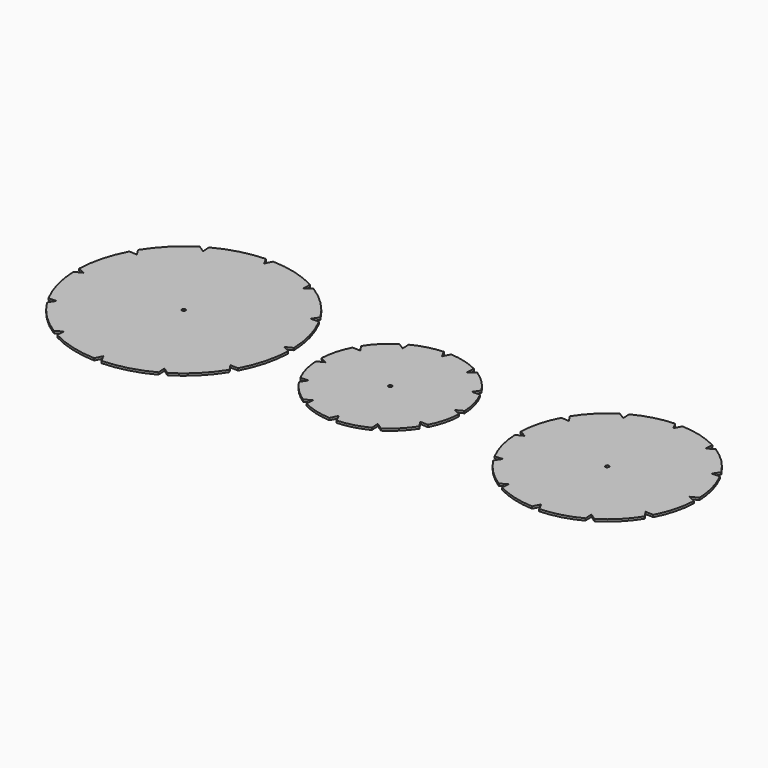
from build123d import *

# Parameters (mm, degrees)
F0_R     = 0.5
F1_DEPTH = 0.6


with BuildPart() as f1:
    # F0 (on Top) → F1 (new body)
    with BuildSketch(Plane.XY):
        with BuildLine():
            Line((72.080339, 19.918584), (72.20431, 22.133308))
            ThreePointArc((72.20431, 22.133308), (67.050815, 24.148146), (61.580339, 24.979992))
            Line((61.580339, 24.979992), (60.580339, 23))
            Line((60.580339, 23), (59.580339, 24.979992))
            ThreePointArc((59.580339, 24.979992), (54.109863, 24.148146), (48.956369, 22.133308))
            Line((48.956369, 22.133308), (49.080339, 19.918584))
            Line((49.080339, 19.918584), (47.224318, 21.133308))
            ThreePointArc((47.224318, 21.133308), (42.90267, 17.67767), (39.447032, 13.356021))
            Line((39.447032, 13.356021), (40.661755, 11.5))
            Line((40.661755, 11.5), (38.447032, 11.623971))
            ThreePointArc((38.447032, 11.623971), (36.432194, 6.470476), (35.600347, 1))
            Line((35.600347, 1), (37.580339, 0))
            Line((37.580339, 0), (35.600347, -1))
            ThreePointArc((35.600347, -1), (36.432194, -6.470476), (38.447032, -11.623971))
            Line((38.447032, -11.623971), (40.661755, -11.5))
            Line((40.661755, -11.5), (39.447032, -13.356021))
            ThreePointArc((39.447032, -13.356021), (42.90267, -17.67767), (47.224318, -21.133308))
            Line((47.224318, -21.133308), (49.080339, -19.918584))
            Line((49.080339, -19.918584), (48.956369, -22.133308))
            ThreePointArc((48.956369, -22.133308), (54.109863, -24.148146), (59.580339, -24.979992))
            Line((59.580339, -24.979992), (60.580339, -23))
            Line((60.580339, -23), (61.580339, -24.979992))
            ThreePointArc((61.580339, -24.979992), (67.050815, -24.148146), (72.20431, -22.133308))
            Line((72.20431, -22.133308), (72.080339, -19.918584))
            Line((72.080339, -19.918584), (73.936361, -21.133308))
            ThreePointArc((73.936361, -21.133308), (78.258009, -17.67767), (81.713647, -13.356021))
            Line((81.713647, -13.356021), (80.498924, -11.5))
            Line((80.498924, -11.5), (82.713647, -11.623971))
            ThreePointArc((82.713647, -11.623971), (84.728485, -6.470476), (85.560331, -1))
            Line((85.560331, -1), (83.580339, 0))
            Line((83.580339, 0), (85.560331, 1))
            ThreePointArc((85.560331, 1), (84.728485, 6.470476), (82.713647, 11.623971))
            Line((82.713647, 11.623971), (80.498924, 11.5))
            Line((80.498924, 11.5), (81.713647, 13.356021))
            ThreePointArc((81.713647, 13.356021), (78.258009, 17.67767), (73.936361, 21.133308))
            Line((73.936361, 21.133308), (72.080339, 19.918584))
        make_face()
        with Locations((60.580339, 0)):
            Circle(F0_R, mode=Mode.SUBTRACT)
        with BuildLine():
            Line((9, 15.588457), (9.121467, 17.798844))
            ThreePointArc((9.121467, 17.798844), (5.176381, 19.318517), (1, 19.974984))
            Line((1, 19.974984), (0, 18))
            Line((0, 18), (-1, 19.974984))
            ThreePointArc((-1, 19.974984), (-5.176381, 19.318517), (-9.121467, 17.798844))
            Line((-9.121467, 17.798844), (-9, 15.588457))
            Line((-9, 15.588457), (-10.853518, 16.798844))
            ThreePointArc((-10.853518, 16.798844), (-14.142136, 14.142136), (-16.798844, 10.853518))
            Line((-16.798844, 10.853518), (-15.588457, 9))
            Line((-15.588457, 9), (-17.798844, 9.121467))
            ThreePointArc((-17.798844, 9.121467), (-19.318517, 5.176381), (-19.974984, 1))
            Line((-19.974984, 1), (-18, 0))
            Line((-18, 0), (-19.974984, -1))
            ThreePointArc((-19.974984, -1), (-19.318517, -5.176381), (-17.798844, -9.121467))
            Line((-17.798844, -9.121467), (-15.588457, -9))
            Line((-15.588457, -9), (-16.798844, -10.853518))
            ThreePointArc((-16.798844, -10.853518), (-14.142136, -14.142136), (-10.853518, -16.798844))
            Line((-10.853518, -16.798844), (-9, -15.588457))
            Line((-9, -15.588457), (-9.121467, -17.798844))
            ThreePointArc((-9.121467, -17.798844), (-5.176381, -19.318517), (-1, -19.974984))
            Line((-1, -19.974984), (0, -18))
            Line((0, -18), (1, -19.974984))
            ThreePointArc((1, -19.974984), (5.176381, -19.318517), (9.121467, -17.798844))
            Line((9.121467, -17.798844), (9, -15.588457))
            Line((9, -15.588457), (10.853518, -16.798844))
            ThreePointArc((10.853518, -16.798844), (14.142136, -14.142136), (16.798844, -10.853518))
            Line((16.798844, -10.853518), (15.588457, -9))
            Line((15.588457, -9), (17.798844, -9.121467))
            ThreePointArc((17.798844, -9.121467), (19.318517, -5.176381), (19.974984, -1))
            Line((19.974984, -1), (18, 0))
            Line((18, 0), (19.974984, 1))
            ThreePointArc((19.974984, 1), (19.318517, 5.176381), (17.798844, 9.121467))
            Line((17.798844, 9.121467), (15.588457, 9))
            Line((15.588457, 9), (16.798844, 10.853518))
            ThreePointArc((16.798844, 10.853518), (14.142136, 14.142136), (10.853518, 16.798844))
            Line((10.853518, 16.798844), (9, 15.588457))
        make_face()
        Circle(F0_R, mode=Mode.SUBTRACT)
        with BuildLine():
            Line((-43.653245, 24.248711), (-43.527606, 26.466324))
            ThreePointArc((-43.527606, 26.466324), (-49.888673, 28.977775), (-56.653245, 29.983329))
            Line((-56.653245, 29.983329), (-57.653245, 28))
            Line((-57.653245, 28), (-58.653245, 29.983329))
            ThreePointArc((-58.653245, 29.983329), (-65.417816, 28.977775), (-71.778884, 26.466324))
            Line((-71.778884, 26.466324), (-71.653245, 24.248711))
            Line((-71.653245, 24.248711), (-73.510934, 25.466324))
            ThreePointArc((-73.510934, 25.466324), (-78.866448, 21.213203), (-83.119569, 15.85769))
            Line((-83.119569, 15.85769), (-81.901956, 14))
            Line((-81.901956, 14), (-84.119569, 14.125639))
            ThreePointArc((-84.119569, 14.125639), (-86.631019, 7.764571), (-87.636573, 1))
            Line((-87.636573, 1), (-85.653245, 0))
            Line((-85.653245, 0), (-87.636573, -1))
            ThreePointArc((-87.636573, -1), (-86.631019, -7.764571), (-84.119569, -14.125639))
            Line((-84.119569, -14.125639), (-81.901956, -14))
            Line((-81.901956, -14), (-83.119569, -15.85769))
            ThreePointArc((-83.119569, -15.85769), (-78.866448, -21.213203), (-73.510934, -25.466324))
            Line((-73.510934, -25.466324), (-71.653245, -24.248711))
            Line((-71.653245, -24.248711), (-71.778884, -26.466324))
            ThreePointArc((-71.778884, -26.466324), (-65.417816, -28.977775), (-58.653245, -29.983329))
            Line((-58.653245, -29.983329), (-57.653245, -28))
            Line((-57.653245, -28), (-56.653245, -29.983329))
            ThreePointArc((-56.653245, -29.983329), (-49.888673, -28.977775), (-43.527606, -26.466324))
            Line((-43.527606, -26.466324), (-43.653245, -24.248711))
            Line((-43.653245, -24.248711), (-41.795555, -25.466324))
            ThreePointArc((-41.795555, -25.466324), (-36.440041, -21.213203), (-32.18692, -15.85769))
            Line((-32.18692, -15.85769), (-33.404533, -14))
            Line((-33.404533, -14), (-31.18692, -14.125639))
            ThreePointArc((-31.18692, -14.125639), (-28.67547, -7.764571), (-27.669916, -1))
            Line((-27.669916, -1), (-29.653245, 0))
            Line((-29.653245, 0), (-27.669916, 1))
            ThreePointArc((-27.669916, 1), (-28.67547, 7.764571), (-31.18692, 14.125639))
            Line((-31.18692, 14.125639), (-33.404533, 14))
            Line((-33.404533, 14), (-32.18692, 15.85769))
            ThreePointArc((-32.18692, 15.85769), (-36.440041, 21.213203), (-41.795555, 25.466324))
            Line((-41.795555, 25.466324), (-43.653245, 24.248711))
        make_face()
        with Locations((-57.653245, 0)):
            Circle(F0_R, mode=Mode.SUBTRACT)
    extrude(amount=F1_DEPTH)


solid = f1.part
